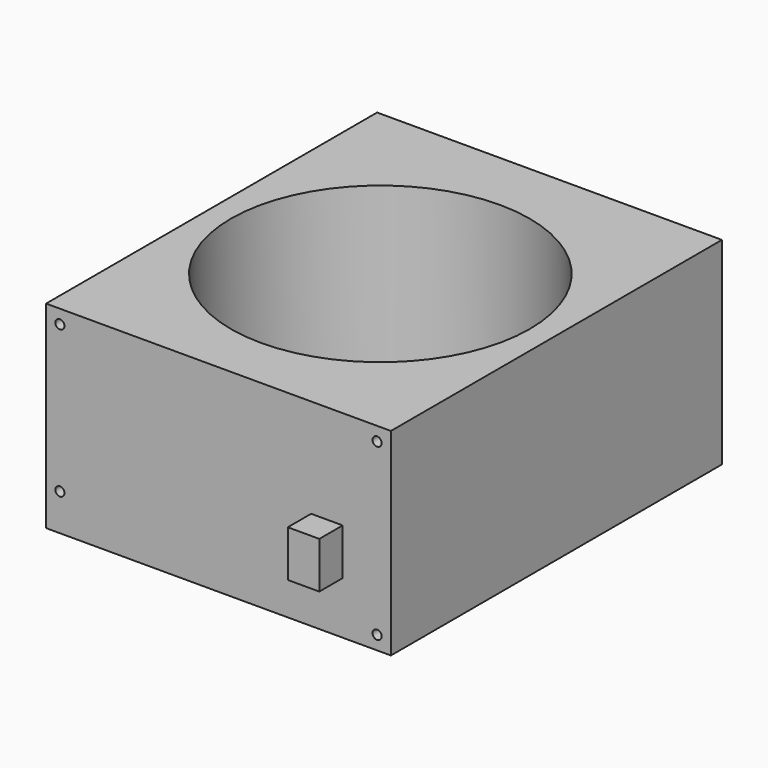
from build123d import *

# Parameters (mm, degrees)
F0_W     = 150
F0_H     = 86
F0_R     = 1.9812
F1_DEPTH = 180
F2_R     = 65
F3_DEPTH = 80
F4_W     = 13.712838
F4_H     = 20.182729
F5_DEPTH = 12.7


with BuildPart() as f1:
    # F0 (on Front) → F1 (new body)
    with BuildSketch(Plane.XZ):
        Rectangle(F0_W, F0_H)
        with Locations((-69, -27)):
            Circle(F0_R, mode=Mode.SUBTRACT)
        with Locations((69, -37)):
            Circle(F0_R, mode=Mode.SUBTRACT)
        with Locations((-69, 37)):
            Circle(F0_R, mode=Mode.SUBTRACT)
        with Locations((69, 37)):
            Circle(F0_R, mode=Mode.SUBTRACT)
    extrude(amount=F1_DEPTH)

    # F2 (on face) → F3 (cut)
    with BuildSketch(Plane.XY.offset(43)):
        with Locations((0, -92)):
            Circle(F2_R)
    extrude(amount=-F3_DEPTH, mode=Mode.SUBTRACT)

    # F4 (on face) → F5 (join)
    with BuildSketch(Plane.XZ.offset(180)):
        with Locations((47.160495, -10.091364)):
            Rectangle(F4_W, F4_H)
    extrude(amount=F5_DEPTH)


solid = f1.part
